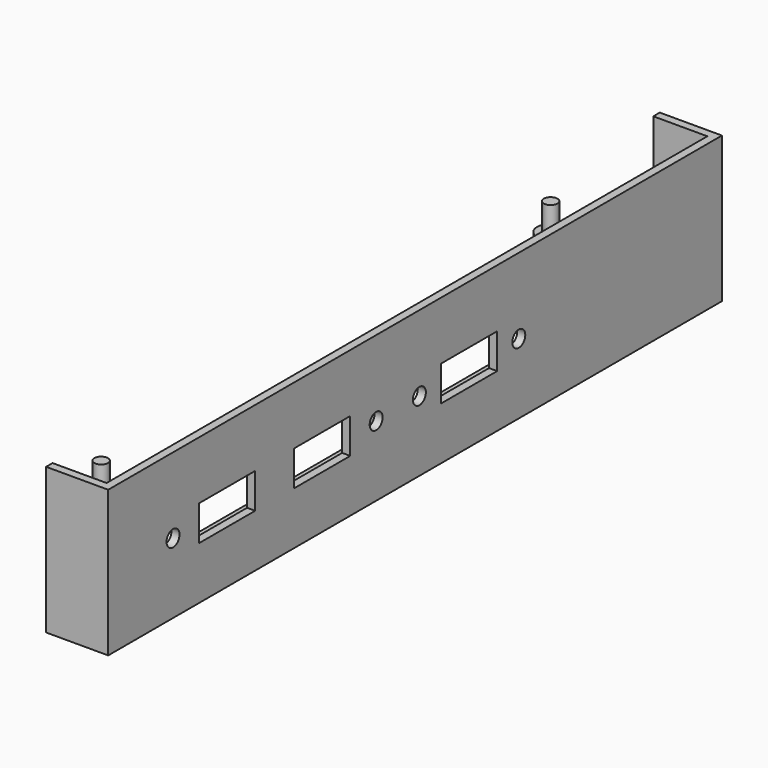
from build123d import *

# Parameters (mm, degrees)
F0_R          = 3.175
F0_R_2        = 1.5875
F1_DEPTH      = 2.54
F2_DEPTH      = 25.4
F3_DEPTH      = 31.75
F5_DEPTH      = 31.75
F5_DEPTH_BACK = 2.54
F7_DEPTH      = 25.4
F8_W          = 16.51
F8_H          = 8.255
F8_R          = 1.905
F9_DEPTH      = 1.905
F12_DEPTH     = 0.9525


with BuildPart() as f1:
    # F0 (on Top) → F1 (new body)
    with BuildSketch(Plane.XY):
        Polygon((6.35, 170.18), (0, 170.18), (-6.35, 170.18), (-6.35, -6.35), (0, -6.35), (6.35, -6.35), align=None)
        Circle(F0_R, mode=Mode.SUBTRACT)
        with Locations((0, 132.08)):
            Circle(F0_R, mode=Mode.SUBTRACT)
        with Locations((0, 132.08)):
            Circle(F0_R)
        with Locations((0, 132.08)):
            Circle(F0_R_2, mode=Mode.SUBTRACT)
        with Locations((0, 132.08)):
            Circle(F0_R_2)
        Circle(F0_R)
        Circle(F0_R_2, mode=Mode.SUBTRACT)
        Circle(F0_R_2)
    extrude(amount=-F1_DEPTH)

    # F0 (on Top) → F2 (join)
    with BuildSketch(Plane.XY):
        with Locations((0, 132.08)):
            Circle(F0_R)
        with Locations((0, 132.08)):
            Circle(F0_R_2, mode=Mode.SUBTRACT)
        with Locations((0, 132.08)):
            Circle(F0_R_2)
        Circle(F0_R_2)
        Circle(F0_R)
        Circle(F0_R_2, mode=Mode.SUBTRACT)
    extrude(amount=F2_DEPTH)

    # F0 (on Top) → F3 (join)
    with BuildSketch(Plane.XY):
        Circle(F0_R_2)
        with Locations((0, 132.08)):
            Circle(F0_R_2)
    extrude(amount=F3_DEPTH)

    # F4 (on Top) → F5 (join, two sides)
    with BuildSketch(Plane.XY) as f5_sk:
        Polygon((-6.35, -6.35), (-6.35, -8.255), (8.255, -8.255), (8.255, 172.085), (-6.35, 172.085), (-6.35, 170.18), (6.35, 170.18), (6.35, -6.35), align=None)
    extrude(amount=F5_DEPTH)
    extrude(f5_sk.sketch, amount=-F5_DEPTH_BACK)

    # F6 (on face) → F7 (join)
    with BuildSketch(Plane.XY):
        with BuildLine():
            Line((6.35, 133.6675), (0, 133.6675))
            ThreePointArc((0, 133.6675), (-1.5875, 132.08), (0, 130.4925))
            Line((0, 130.4925), (6.35, 130.4925))
            Line((6.35, 130.4925), (6.35, 133.6675))
        make_face()
        with BuildLine():
            Line((6.35, 1.5875), (0, 1.5875))
            ThreePointArc((0, 1.5875), (-1.122532, 1.122532), (-1.5875, 0))
            Line((-1.5875, 0), (-1.5875, -6.35))
            Line((-1.5875, -6.35), (1.5875, -6.35))
            Line((1.5875, -6.35), (1.5875, -1.5875))
            Line((1.5875, -1.5875), (6.35, -1.5875))
            Line((6.35, -1.5875), (6.35, 1.5875))
        make_face()
    extrude(amount=F7_DEPTH)

    # F8 (on face) → F9 (cut, through all)
    with BuildSketch(Plane.YZ.offset(8.255)):
        with Locations((26.67, 13.97)):
            Rectangle(F8_W, F8_H)
        with Locations((10.795, 13.97)):
            Circle(F8_R)
        with Locations((54.61, 13.97)):
            Rectangle(F8_W, F8_H)
        with Locations((70.485, 13.97)):
            Circle(F8_R)
        with Locations((97.79, 13.97)):
            Rectangle(F8_W, F8_H)
        with Locations((83.185, 13.97)):
            Circle(F8_R)
        with Locations((112.395, 13.97)):
            Circle(F8_R)
    extrude(amount=-F9_DEPTH, mode=Mode.SUBTRACT)

    # F11 (on offset) → F12 (join, symmetric)
    with BuildSketch(Plane.XZ.offset(-76.835)):
        Polygon((6.35, 19.05), (-3.81, 0), (6.35, 0), align=None)
    extrude(amount=F12_DEPTH, both=True)


solid = f1.part
